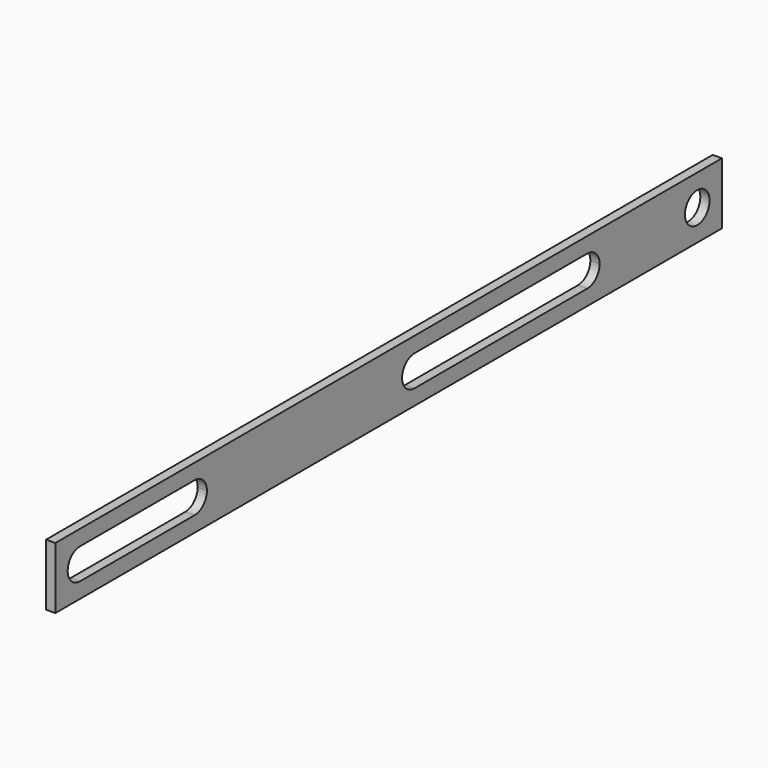
from build123d import *

# Parameters (mm, degrees)
F0_W     = 270
F0_H     = 20
F0_R     = 5
F1_DEPTH = 3


with BuildPart() as f1:
    # F0 (on Right) → F1 (new body)
    with BuildSketch(Plane.YZ):
        with Locations((135, 10)):
            Rectangle(F0_W, F0_H)
        with BuildLine():
            ThreePointArc((10, 5), (5, 10), (10, 15))
            Line((10, 15), (56.39484, 15))
            ThreePointArc((56.39484, 15), (59.930374, 13.535534), (61.39484, 10))
            ThreePointArc((61.39484, 10), (59.930374, 6.464466), (56.39484, 5))
            Line((56.39484, 5), (10, 5))
        make_face(mode=Mode.SUBTRACT)
        with BuildLine():
            ThreePointArc((145.45455, 5), (140.45455, 10), (145.45455, 15))
            Line((145.45455, 15), (215.45455, 15))
            ThreePointArc((215.45455, 15), (218.990084, 13.535534), (220.45455, 10))
            ThreePointArc((220.45455, 10), (218.990084, 6.464466), (215.45455, 5))
            Line((215.45455, 5), (145.45455, 5))
        make_face(mode=Mode.SUBTRACT)
        with Locations((260, 10)):
            Circle(F0_R, mode=Mode.SUBTRACT)
    extrude(amount=F1_DEPTH)


solid = f1.part
